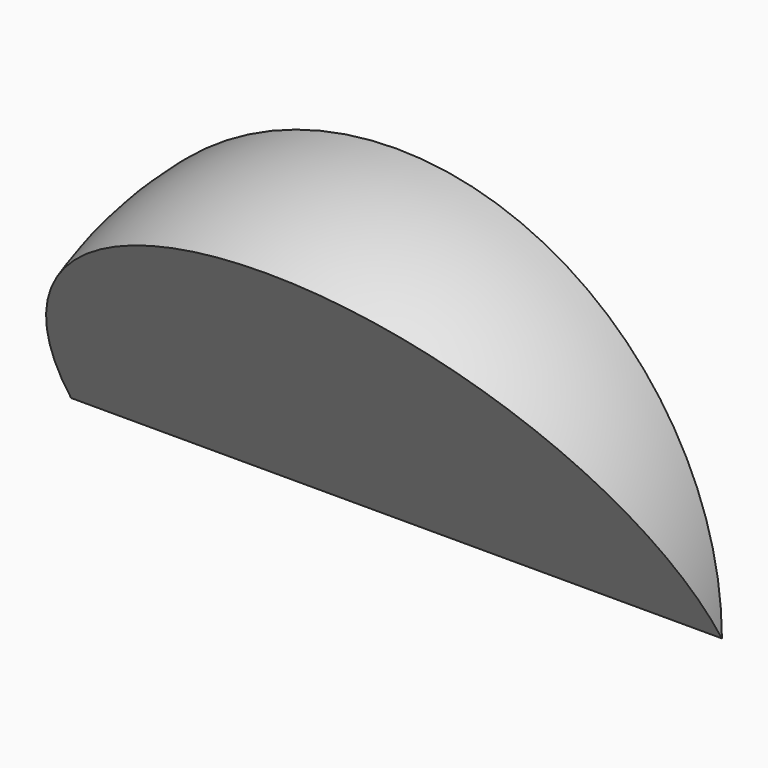
from build123d import *

# Parameters (mm, degrees)
F1_ANGLE = 30


with BuildPart() as f1:
    # F0 (on Front) → F1 (revolve)
    with BuildSketch(Plane.XZ):
        with BuildLine():
            ThreePointArc((317.5, 0), (0, 317.5), (-317.5, 0))
            Line((-317.5, 0), (317.5, 0))
        make_face()
    revolve(axis=Axis((-57.398039653, 0, 0), (1, 0, 0)), revolution_arc=F1_ANGLE)


solid = f1.part
